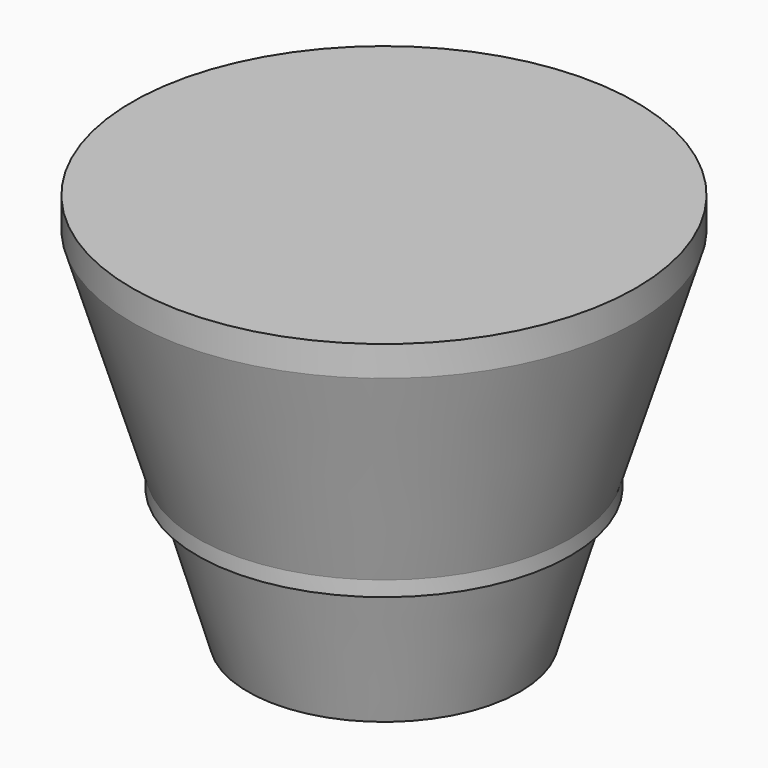
from build123d import *


with BuildPart() as f1:
    # F0 (on Front) → F1 (revolve)
    with BuildSketch(Plane.XZ):
        Polygon((0, 15), (0, 0), (27, 0), (35, 27), (20, 27), (20, 24), (23, 24), (23, 21), (20, 21), (20, 18), (23, 18), (23, 15), align=None)
        Polygon((0, 21), (0, 15), (23, 15), (23, 18), (20, 18), (20, 21), (23, 21), (23, 24), (20, 24), (20, 27), (3, 27), (3, 21), align=None)
        Polygon((20, 27), (35, 27), (37, 27), (37, 30), (25.125, 30), (25.125, 36), (17.875, 36), (17.875, 30), (4, 30), (3, 30), (3, 27), align=None)
        Polygon((0, 78), (0, 21), (3, 21), (3, 27), (3, 30), (4, 30), (4, 36), (10.5, 36), (10.5, 42), (32.875, 42), (32.875, 78), align=None)
        Polygon((25.125, 30), (37, 30), (50, 72), (43.125, 72), (43.125, 66), (35.875, 66), (35.875, 60), (38.875, 60), (38.875, 57), (35.875, 57), (35.875, 54), (38.875, 54), (38.875, 51), (35.875, 51), (35.875, 39), (25.125, 39), (25.125, 36), align=None)
        Polygon((39, 78), (32.875, 78), (32.875, 42), (10.5, 42), (10.5, 36), (4, 36), (4, 30), (17.875, 30), (17.875, 36), (25.125, 36), (25.125, 39), (35.875, 39), (35.875, 51), (38.875, 51), (38.875, 54), (35.875, 54), (35.875, 57), (38.875, 57), (38.875, 60), (35.875, 60), (35.875, 66), (35.875, 72), align=None)
        Polygon((43.125, 72), (50, 72), (50, 78), (39, 78), (35.875, 72), (35.875, 66), (43.125, 66), align=None)
    revolve(axis=Axis((0, 0, 49.5), (0, 0, -1)))


solid = f1.part
